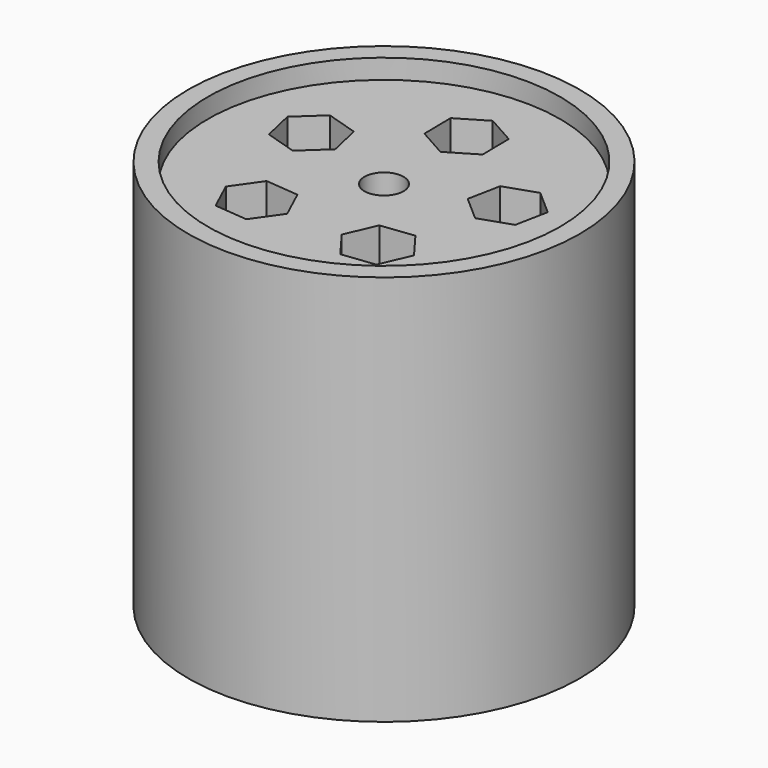
from build123d import *

# Parameters (mm, degrees)
F0_R     = 2.5
F0_R_2   = 2.25
F1_DEPTH = 5
F0_R_3   = 0.25
F2_DEPTH = 4.75


with BuildPart() as f1:
    # F0 (on Top) → F1 (new body)
    with BuildSketch(Plane.XY):
        Circle(F0_R)
        Circle(F0_R_2, mode=Mode.SUBTRACT)
    extrude(amount=F1_DEPTH)

    # F0 (on Top) → F2 (join)
    with BuildSketch(Plane.XY):
        Circle(F0_R_2)
        Polygon((-1.198462, -1.028652), (-0.953485, -0.681616), (-0.530455, -0.720254), (-0.352401, -1.105928), (-0.597378, -1.452964), (-1.020409, -1.414326), align=None, mode=Mode.SUBTRACT)
        Polygon((0.607961, -1.457676), (0.353612, -1.117449), (0.521083, -0.727063), (0.942902, -0.676904), (1.197251, -1.017131), (1.029781, -1.407517), align=None, mode=Mode.SUBTRACT)
        Polygon((-1.348651, 0.821934), (-0.942898, 0.696188), (-0.848922, 0.281922), (-1.160698, -0.006597), (-1.566451, 0.11915), (-1.660428, 0.533415), align=None, mode=Mode.SUBTRACT)
        Circle(F0_R_3, mode=Mode.SUBTRACT)
        Polygon((1.574203, 0.127759), (1.17203, -0.009006), (0.852502, 0.270904), (0.935147, 0.687579), (1.33732, 0.824343), (1.656848, 0.544433), align=None, mode=Mode.SUBTRACT)
        Polygon((0.370742, 1.111884), (0.005792, 0.894491), (-0.36495, 1.101851), (-0.370742, 1.526603), (-0.005792, 1.743995), (0.36495, 1.536635), align=None, mode=Mode.SUBTRACT)
    extrude(amount=F2_DEPTH)


solid = f1.part
